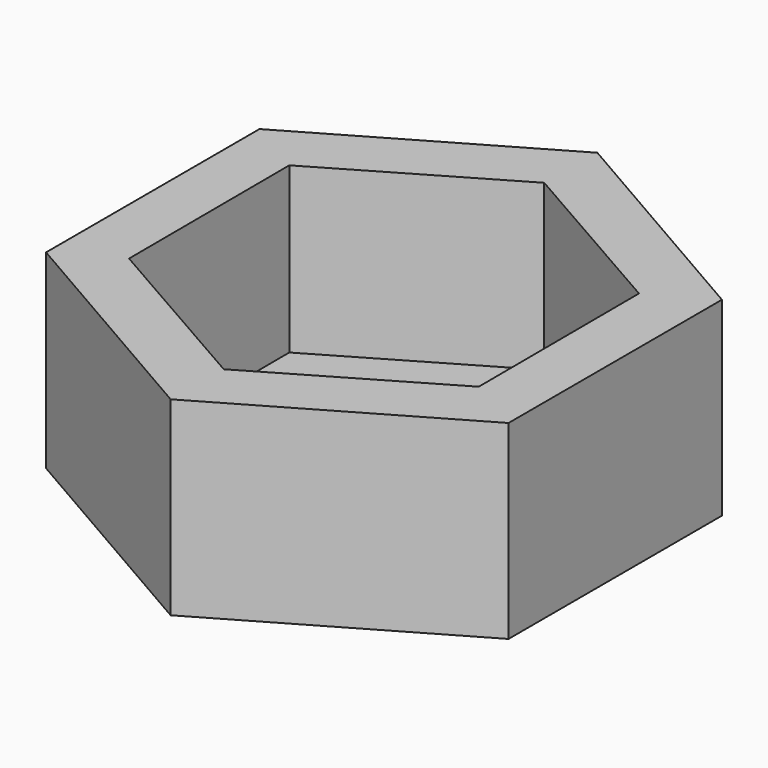
from build123d import *

# Parameters (mm, degrees)
F1_DEPTH = 38.1
F3_DEPTH = 33.02


with BuildPart() as f1:
    # F0 (on Top) → F1 (new body)
    with BuildSketch(Plane.XY):
        Polygon((-0.028071, 53.483654), (-46.332239, 26.717517), (-46.304168, -26.766138), (0.028071, -53.483654), (46.332239, -26.717517), (46.304168, 26.766138), align=None)
    extrude(amount=F1_DEPTH)

    # F2 (on face) → F3 (cut)
    with BuildSketch(Plane.XY.offset(38.1)):
        Polygon((34.850708, 20.303341), (-0.157855, 40.333269), (-35.008563, 20.029928), (-34.850708, -20.303341), (0.157855, -40.333269), (35.008563, -20.029928), align=None)
    extrude(amount=-F3_DEPTH, mode=Mode.SUBTRACT)


solid = f1.part
